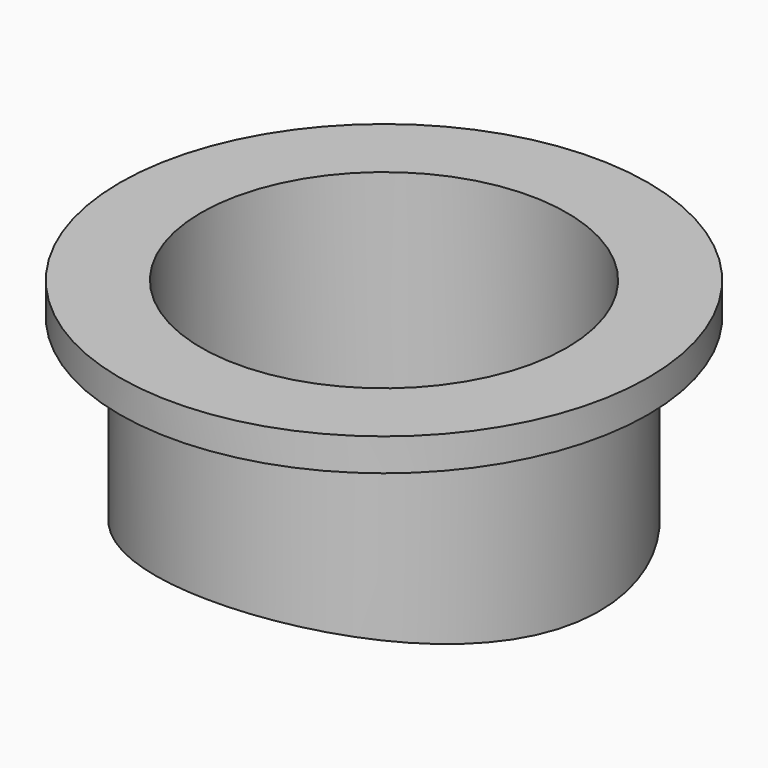
from build123d import *

# Parameters (mm, degrees)
F0_W          = 2.54
F0_H          = 12.7
F3_DEPTH      = 25.4
F2_R          = 69.85
F4_DEPTH      = 25.4
F4_DEPTH_BACK = 25.4


with BuildPart() as f1:
    # F0 (on Front) → F1 (revolve)
    with BuildSketch(Plane.XZ):
        with Locations((-15.5575, 6.35)):
            Rectangle(F0_W, F0_H)
        Polygon((-16.8275, 12.7), (-14.2875, 12.7), (-14.2875, 15.24), (-20.6375, 15.24), (-20.6375, 12.7), align=None)
    revolve(axis=Axis((0, 0, 10.8147247049), (0, 0, 1)))

    # F3 (add): a face of the model
    f3_faces = [f1.faces().sort_by_distance(p)[0] for p in [
        (16.3515464256, 0, 0),
    ]]
    extrude(f3_faces, amount=F3_DEPTH)

    # F2 (on Front) → F4 (cut, two sides)
    with BuildSketch(Plane.XZ) as f4_sk:
        with Locations((0, -69.85)):
            Circle(F2_R)
    extrude(amount=-F4_DEPTH, mode=Mode.SUBTRACT)
    extrude(f4_sk.sketch, amount=F4_DEPTH_BACK, mode=Mode.SUBTRACT)


solid = f1.part
